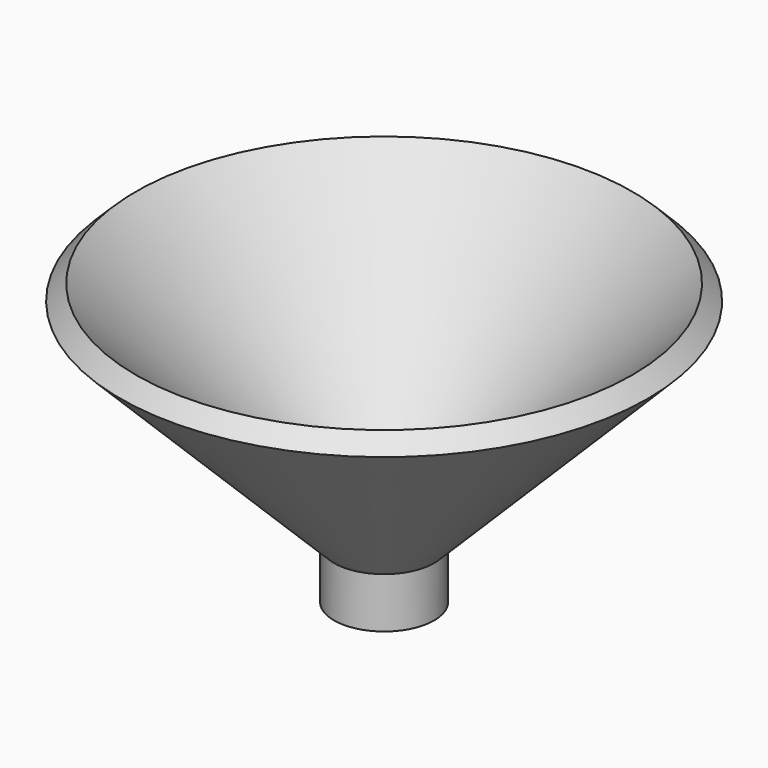
from build123d import *

# Parameters (mm, degrees)
F2_R     = 6.940355
F3_DEPTH = 279.4
F4_DEPTH = 25.4


with BuildPart() as f1:
    # F0 (on Front) → F1 (revolve)
    with BuildSketch(Plane.XZ):
        Polygon((0, -12.7), (0, 0), (53.81389, 53.949098), (49.866706, 57.886391), (-4.610259, 3.272552), (-12.603007, 2.86432), (-12.603007, -12.7), align=None)
    revolve(axis=Axis((-12.603007, 0, -4.91784), (0, 0, 1)))

    # F2 (on Top) → F3 (cut)
    with BuildSketch(Plane.XY):
        with Locations((-12.676277, 0)):
            Circle(F2_R)
    extrude(amount=-F3_DEPTH, mode=Mode.SUBTRACT)

    # F2 (on Top) → F4 (cut)
    with BuildSketch(Plane.XY):
        with Locations((-12.676277, 0)):
            Circle(F2_R)
    extrude(amount=F4_DEPTH, mode=Mode.SUBTRACT)


solid = f1.part
